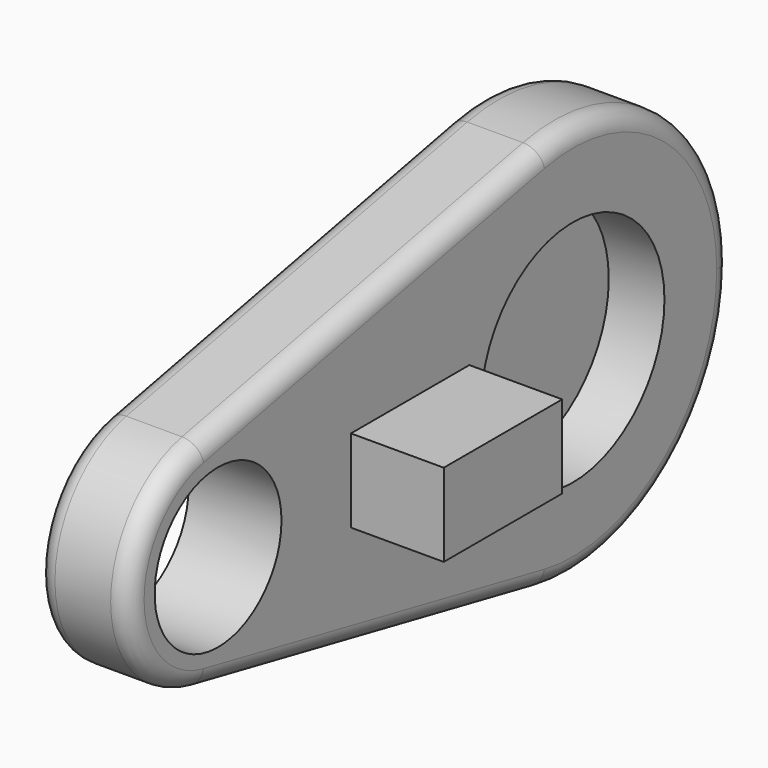
from build123d import *

# Parameters (mm, degrees)
F1_DEPTH = 25.4
F3_W     = 40.501038
F3_H     = 22.692132
F4_DEPTH = 25.4
F2_R     = 31.353538
F5_DEPTH = 15.24
F6_R     = 21.689952
F7_DEPTH = 25.4
F8_R     = 5.08


with BuildPart() as f1:
    # F0 (on Right) → F1 (new body)
    with BuildSketch(Plane.YZ):
        with BuildLine():
            ThreePointArc((133.647867, 0), (113.743156, 42.025772), (68.617132, 53.250967))
            ThreePointArc((68.617132, 53.250967), (25.012127, 0), (68.617132, -53.250967))
            ThreePointArc((68.617132, -53.250967), (113.743156, -42.025772), (133.647867, 0))
        make_face()
        with BuildLine():
            ThreePointArc((-47.991263, -29.79205), (-22.744834, -23.511947), (-11.608846, 0))
            ThreePointArc((-11.608846, 0), (-22.744834, 23.511947), (-47.991263, 29.79205))
            ThreePointArc((-47.991263, 29.79205), (-72.386735, 0), (-47.991263, -29.79205))
        make_face()
        with BuildLine():
            ThreePointArc((-47.991263, 29.79205), (-22.744834, 23.511947), (-11.608846, 0))
            ThreePointArc((-11.608846, 0), (-22.744834, -23.511947), (-47.991263, -29.79205))
            Line((-47.991263, -29.79205), (68.617132, -53.250967))
            ThreePointArc((68.617132, -53.250967), (25.012127, 0), (68.617132, 53.250967))
            Line((68.617132, 53.250967), (-47.991263, 29.79205))
        make_face()
    extrude(amount=F1_DEPTH)

    # F3 (on face) → F4 (join)
    with BuildSketch(Plane.YZ.offset(25.4)):
        with Locations((23.695795, 0)):
            Rectangle(F3_W, F3_H)
    extrude(amount=F4_DEPTH)

    # F2 (on face) → F5 (cut)
    with BuildSketch(Plane.YZ.offset(25.4)):
        with Locations((79.329997, 0)):
            Circle(F2_R)
    extrude(amount=-F5_DEPTH, mode=Mode.SUBTRACT)

    # F6 (on face) → F7 (cut)
    with BuildSketch(Plane.YZ.offset(25.4)):
        with Locations((-41.99779, 0)):
            Circle(F6_R)
    extrude(amount=-F7_DEPTH, mode=Mode.SUBTRACT)

    # F8
    f8_edges = [f1.edges().sort_by_distance(p)[0] for p in [
        (0, -72.386735, 0),
        (12.7, -47.991263, -29.79205),
        (25.4, -72.386735, 0),
        (12.7, -47.991263, 29.79205),
    ]]
    fillet(f8_edges, radius=F8_R)


solid = f1.part
